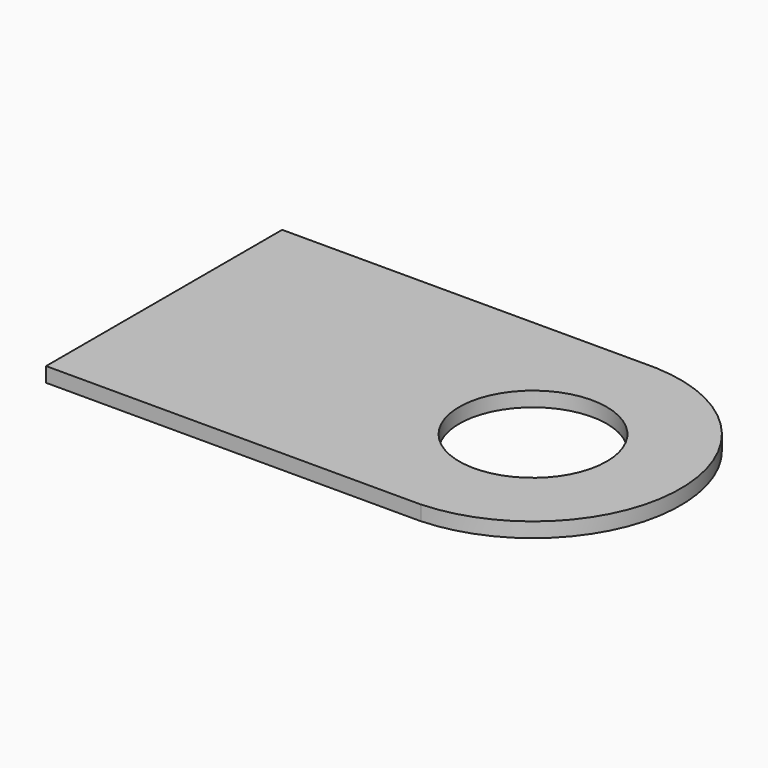
from build123d import *

# Parameters (mm, degrees)
CYLINDER044_R     = 0.5
CYLINDER044_DEPTH = 0.1
BOX017_W          = 2.54
BOX017_H          = 2
BOX017_DEPTH      = 0.1
CYLINDER043_R     = 0.5
CYLINDER043_DEPTH = 0.1
CYLINDER042_R     = 1
CYLINDER042_DEPTH = 0.1


with BuildPart() as cylinder044:
    # Cylinder044 → Cylinder044 (new body)
    with BuildSketch(Plane.XY.offset(1)):
        Circle(CYLINDER044_R)
    extrude(amount=CYLINDER044_DEPTH)


with BuildPart() as cut030:
    # Box017 → Box017 (new body)
    with BuildSketch(Plane(origin=(-2.5, -1, 1), x_dir=(1, 0, 0), z_dir=(0, 0, 1))):
        with Locations((1.27, 1)):
            Rectangle(BOX017_W, BOX017_H)
    extrude(amount=BOX017_DEPTH)

    # Cut030: cut Cylinder044
    add(cylinder044.part, mode=Mode.SUBTRACT)


with BuildPart() as cylinder043:
    # Cylinder043 → Cylinder043 (new body)
    with BuildSketch(Plane.XY.offset(1)):
        Circle(CYLINDER043_R)
    extrude(amount=CYLINDER043_DEPTH)


with BuildPart() as fusion014:
    # Cylinder042 → Cylinder042 (new body)
    with BuildSketch(Plane.XY.offset(1)):
        Circle(CYLINDER042_R)
    extrude(amount=CYLINDER042_DEPTH)

    # Cut029: cut Cylinder043
    add(cylinder043.part, mode=Mode.SUBTRACT)

    # Fusion014: union Cut030
    add(cut030.part)


with BuildPart() as fusion014_1:
    # Fusion014 placement: moved
    add(fusion014.part.moved(Location((0, -35.56, 5.5))))


solid = fusion014_1.part
